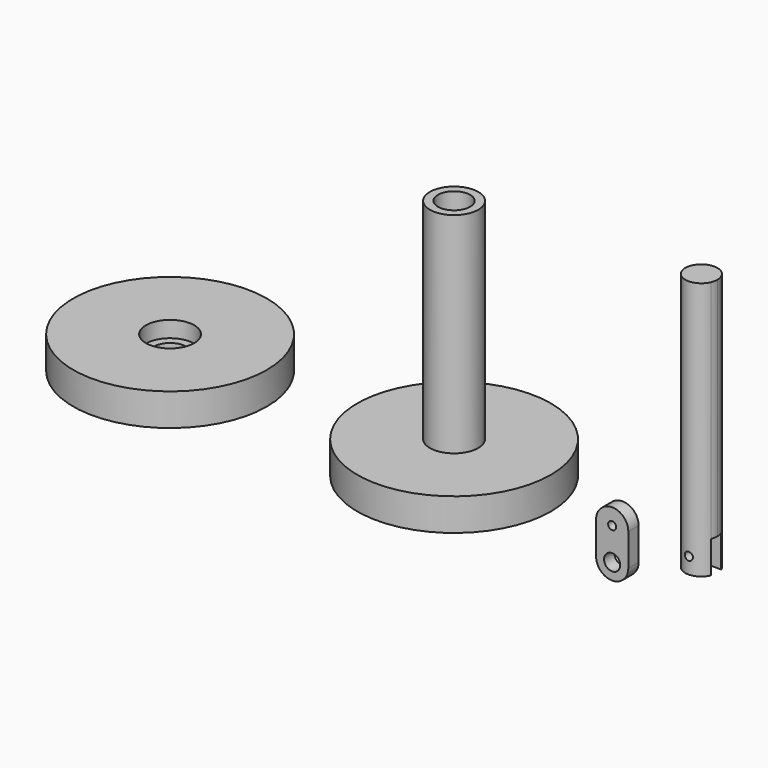
from build123d import *

# Parameters (mm, degrees)
F0_R           = 19.05
F0_R_2         = 4.7625
F1_DEPTH       = 6.35
F0_R_3         = 3.175
F2_DEPTH       = 12.7
F3_DEPTH       = 47.625
F4_R           = 19.05
F4_R_2         = 4.7625
F5_DEPTH       = 6.35
F4_R_3         = 3.175
F6_DEPTH       = 3.175
F8_DEPTH       = 50.8
F9_DEPTH       = 6.35
F10_R          = 0.79375
F11_DEPTH      = 3.175
F11_DEPTH_BACK = 3.175
F12_R          = 0.79375
F12_R_2        = 1.5875
F13_DEPTH      = 2.54


with BuildPart() as f1:
    # F0 (on Top) → F1 (new body)
    with BuildSketch(Plane.XY):
        Circle(F0_R)
        Circle(F0_R_2, mode=Mode.SUBTRACT)
    extrude(amount=F1_DEPTH)



with BuildPart() as f2:
    # F0 (on Top) → F2 (new body)
    with BuildSketch(Plane.XY):
        Circle(F0_R_3)
    extrude(amount=F2_DEPTH)


with BuildPart() as f1_1:
    add(f1.part)

    add(f2.part)  # F3 merges F2
    # F0 (on Top) → F3 (join)
    with BuildSketch(Plane.XY):
        Circle(F0_R_2)
        Circle(F0_R_3, mode=Mode.SUBTRACT)
    extrude(amount=F3_DEPTH)


with BuildPart() as f5:
    # F4 (on Top) → F5 (new body)
    with BuildSketch(Plane.XY):
        with Locations((-55.8807500322, 0)):
            Circle(F4_R)
        with Locations((-55.8807500322, 0)):
            Circle(F4_R_2, mode=Mode.SUBTRACT)
    extrude(amount=F5_DEPTH)

    # F4 (on Top) → F6 (join)
    with BuildSketch(Plane.XY):
        with Locations((-55.8807500322, 0)):
            Circle(F4_R_2)
        with Locations((-55.8807500322, 0)):
            Circle(F4_R_3, mode=Mode.SUBTRACT)
    extrude(amount=F6_DEPTH)


with BuildPart() as f8:
    # F7 (on Top) → F8 (new body)
    with BuildSketch(Plane.XY):
        with BuildLine():
            Line((48.6559979618, 0), (51.8182979618, 0))
            ThreePointArc((51.8182979618, 0), (51.7510257715, 0.6488020863), (51.552071388, 1.27))
            Line((51.552071388, 1.27), (48.6559979618, 1.27))
            Line((48.6559979618, 1.27), (48.6559979618, 0))
        make_face()
        with BuildLine():
            ThreePointArc((51.552071388, -1.27), (51.7510257715, -0.6488020863), (51.8182979618, 0))
            Line((51.8182979618, 0), (48.6559979618, 0))
            Line((48.6559979618, 0), (48.6559979618, -1.27))
            Line((48.6559979618, -1.27), (51.552071388, -1.27))
        make_face()
        with BuildLine():
            Line((48.6559979618, 1.27), (51.552071388, 1.27))
            ThreePointArc((51.552071388, 1.27), (48.6559979618, 3.1623), (45.7599245355, 1.27))
            Line((45.7599245355, 1.27), (48.6559979618, 1.27))
        make_face()
        with BuildLine():
            ThreePointArc((45.7599245355, -1.27), (48.6559979618, -3.1623), (51.552071388, -1.27))
            Line((51.552071388, -1.27), (48.6559979618, -1.27))
            Line((48.6559979618, -1.27), (45.7599245355, -1.27))
        make_face()
        with BuildLine():
            Line((48.6559979618, -1.27), (48.6559979618, 0))
            Line((48.6559979618, 0), (45.4936979618, 0))
            ThreePointArc((45.4936979618, 0), (45.5609701521, -0.6488020863), (45.7599245355, -1.27))
            Line((45.7599245355, -1.27), (48.6559979618, -1.27))
        make_face()
        with BuildLine():
            Line((45.4936979618, 0), (48.6559979618, 0))
            Line((48.6559979618, 0), (48.6559979618, 1.27))
            Line((48.6559979618, 1.27), (45.7599245355, 1.27))
            ThreePointArc((45.7599245355, 1.27), (45.5609701521, 0.6488020863), (45.4936979618, 0))
        make_face()
    extrude(amount=F8_DEPTH)

    # F7 (on Top) → F9 (cut)
    with BuildSketch(Plane.XY):
        with BuildLine():
            Line((45.4936979618, 0), (48.6559979618, 0))
            Line((48.6559979618, 0), (48.6559979618, 1.27))
            Line((48.6559979618, 1.27), (45.7599245355, 1.27))
            ThreePointArc((45.7599245355, 1.27), (45.5609701521, 0.6488020863), (45.4936979618, 0))
        make_face()
        with BuildLine():
            Line((48.6559979618, 0), (51.8182979618, 0))
            ThreePointArc((51.8182979618, 0), (51.7510257715, 0.6488020863), (51.552071388, 1.27))
            Line((51.552071388, 1.27), (48.6559979618, 1.27))
            Line((48.6559979618, 1.27), (48.6559979618, 0))
        make_face()
        with BuildLine():
            Line((48.6559979618, -1.27), (48.6559979618, 0))
            Line((48.6559979618, 0), (45.4936979618, 0))
            ThreePointArc((45.4936979618, 0), (45.5609701521, -0.6488020863), (45.7599245355, -1.27))
            Line((45.7599245355, -1.27), (48.6559979618, -1.27))
        make_face()
        with BuildLine():
            ThreePointArc((51.552071388, -1.27), (51.7510257715, -0.6488020863), (51.8182979618, 0))
            Line((51.8182979618, 0), (48.6559979618, 0))
            Line((48.6559979618, 0), (48.6559979618, -1.27))
            Line((48.6559979618, -1.27), (51.552071388, -1.27))
        make_face()
    extrude(amount=F9_DEPTH, mode=Mode.SUBTRACT)

    # F10 (on Front) → F11 (cut, two sides)
    with BuildSketch(Plane.XZ) as f11_sk:
        with Locations((48.6559085548, 3.175)):
            Circle(F10_R)
    extrude(amount=-F11_DEPTH, mode=Mode.SUBTRACT)
    extrude(f11_sk.sketch, amount=F11_DEPTH_BACK, mode=Mode.SUBTRACT)


with BuildPart() as f13:
    # F12 (on Front) → F13 (new body)
    with BuildSketch(Plane.XZ):
        with BuildLine():
            ThreePointArc((33.1403914758, 0), (35.3854555061, 0.9299359697), (36.3153914758, 3.175))
            ThreePointArc((36.3153914758, 3.175), (33.1403914758, 6.35), (29.9653914758, 3.175))
            ThreePointArc((29.9653914758, 3.175), (30.8953274456, 0.9299359697), (33.1403914758, 0))
        make_face()
        with Locations((33.1403914758, 3.175)):
            Circle(F12_R, mode=Mode.SUBTRACT)
        with BuildLine():
            Line((36.3153914758, -3.175), (36.3153914758, 3.175))
            ThreePointArc((36.3153914758, 3.175), (35.3854555061, 0.9299359697), (33.1403914758, 0))
            ThreePointArc((33.1403914758, 0), (35.3854555061, -0.9299359697), (36.3153914758, -3.175))
        make_face()
        with BuildLine():
            ThreePointArc((33.1403914758, 0), (30.8953274456, 0.9299359697), (29.9653914758, 3.175))
            Line((29.9653914758, 3.175), (29.9653914758, -3.175))
            ThreePointArc((29.9653914758, -3.175), (30.8953274456, -0.9299359697), (33.1403914758, 0))
        make_face()
        with BuildLine():
            ThreePointArc((36.3153914758, -3.175), (35.3854555061, -0.9299359697), (33.1403914758, 0))
            ThreePointArc((33.1403914758, 0), (30.8953274456, -0.9299359697), (29.9653914758, -3.175))
            ThreePointArc((29.9653914758, -3.175), (33.1403914758, -6.35), (36.3153914758, -3.175))
        make_face()
        with Locations((33.1403914758, -3.175)):
            Circle(F12_R_2, mode=Mode.SUBTRACT)
    extrude(amount=F13_DEPTH)


solid = Compound([f1_1.part, f5.part, f8.part, f13.part])
